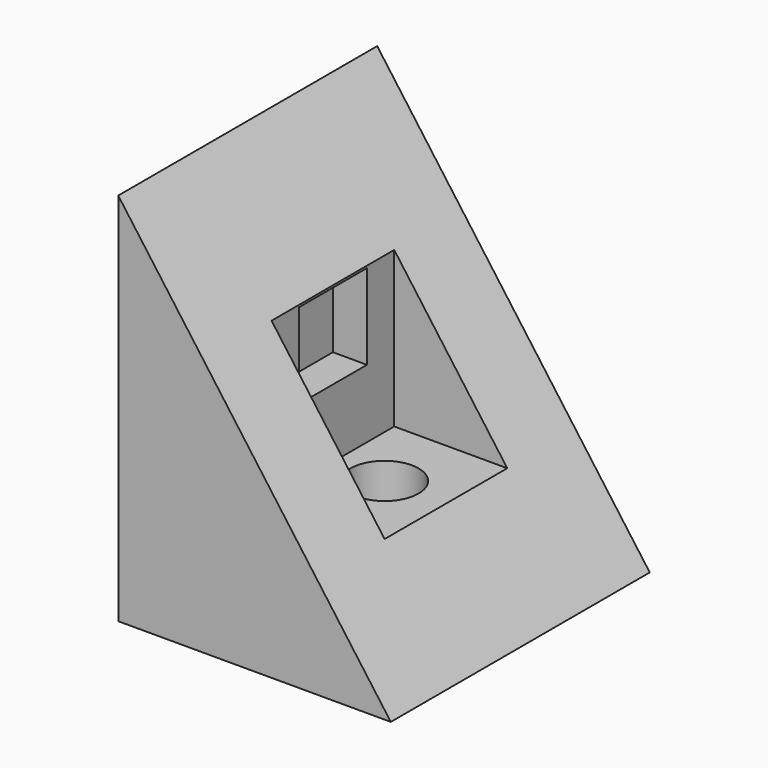
from build123d import *

# Parameters (mm, degrees)
F1_DEPTH      = 120.65
F2_W          = 114.3
F2_H          = 139.7
F2_W_2        = 63.5
F2_H_2        = 63.5
F3_DEPTH      = 139.7
F4_DEPTH      = 165.1
F5_DEPTH      = 271.526
F5_DEPTH_BACK = 305.054
F6_DEPTH      = 87.122
F7_DEPTH      = 165.1
F8_R          = 25.4
F9_DEPTH      = 72.39


with BuildPart() as f1:
    # F0 (on Front) → F1 (new body, symmetric)
    with BuildSketch(Plane.XZ):
        Polygon((-101.9933745265, 279.4), (-101.9933745265, 0), (101.2066254735, 0), align=None)
        Polygon((-101.9933745265, 279.4), (101.2066254735, 0), (101.2066254735, 279.4), align=None)
    extrude(amount=F1_DEPTH, both=True)

    # F2 (on face) → F3 (cut)
    with BuildSketch(Plane.YZ.offset(101.2066254735)):
        with Locations((0, 146.05)):
            Rectangle(F2_W, F2_H)
        with Locations((0, 158.75)):
            Rectangle(F2_W_2, F2_H_2, mode=Mode.SUBTRACT)
        with Locations((0, 158.75)):
            Rectangle(F2_W_2, F2_H_2)
    extrude(amount=-F3_DEPTH, mode=Mode.SUBTRACT)

    # F2 (on face) → F4 (join)
    with BuildSketch(Plane.YZ.offset(101.2066254735)):
        with Locations((0, 158.75)):
            Rectangle(F2_W_2, F2_H_2)
    extrude(amount=-F4_DEPTH)

    # F0 (on Front) → F5 (cut, two sides)
    with BuildSketch(Plane.XZ) as f5_sk:
        Polygon((-101.9933745265, 279.4), (101.2066254735, 0), (101.2066254735, 279.4), align=None)
    extrude(amount=F5_DEPTH, mode=Mode.SUBTRACT)
    extrude(f5_sk.sketch, amount=-F5_DEPTH_BACK, mode=Mode.SUBTRACT)

    # F6 (cut): a face of the model
    f6_faces = [f1.faces().sort_by_distance(p)[0] for p in [
        (-22.7054235885, -31.75, 148.6706349206),
    ]]
    extrude(f6_faces, amount=-F6_DEPTH, mode=Mode.SUBTRACT)

    # F2 (on face) → F7 (cut)
    with BuildSketch(Plane.YZ.offset(101.2066254735)):
        with Locations((0, 158.75)):
            Rectangle(F2_W_2, F2_H_2)
    extrude(amount=-F7_DEPTH, mode=Mode.SUBTRACT)

    # F8 (on face) → F9 (cut)
    with BuildSketch(Plane.XY.offset(76.2)):
        Circle(F8_R)
    extrude(amount=-F9_DEPTH, mode=Mode.SUBTRACT)


solid = f1.part
